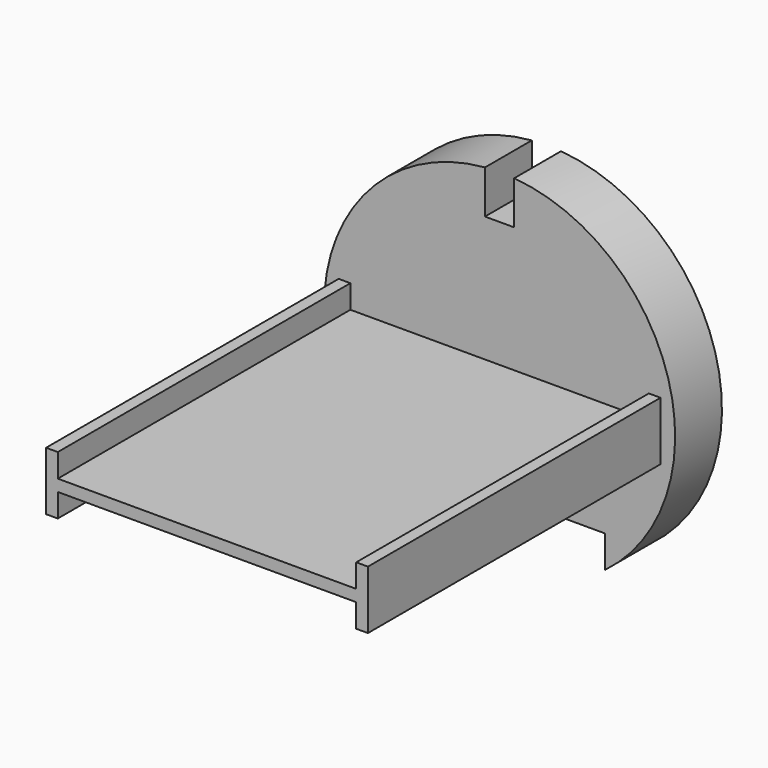
from build123d import *

# Parameters (mm, degrees)
F1_R     = 12
F2_DEPTH = 4
F3_DEPTH = 25
F4_W     = 2
F4_H     = 5.621666
F4_W_2   = 14.4
F4_H_2   = 10
F5_DEPTH = 4.001


with BuildPart() as f2:
    # F1 (on Front) → F2 (new body)
    with BuildSketch(Plane.XZ):
        Circle(F1_R)
    extrude(amount=-F2_DEPTH)

    # F0 (on Front) → F3 (join)
    with BuildSketch(Plane.XZ):
        Polygon((10.2, 0.4), (-10.2, 0.4), (-10.2, 2), (-11, 2), (-11, -2), (-10.2, -2), (-10.2, -0.4), (10.2, -0.4), (10.2, -2), (11, -2), (11, 2), (10.2, 2), align=None)
    extrude(amount=F3_DEPTH)

    # F4 (on face) → F5 (cut, through all)
    with BuildSketch(Plane.XZ):
        with Locations((0, 11.810833)):
            Rectangle(F4_W, F4_H)
        with Locations((0, -12.4)):
            Rectangle(F4_W_2, F4_H_2)
    extrude(amount=-F5_DEPTH, mode=Mode.SUBTRACT)


solid = f2.part
